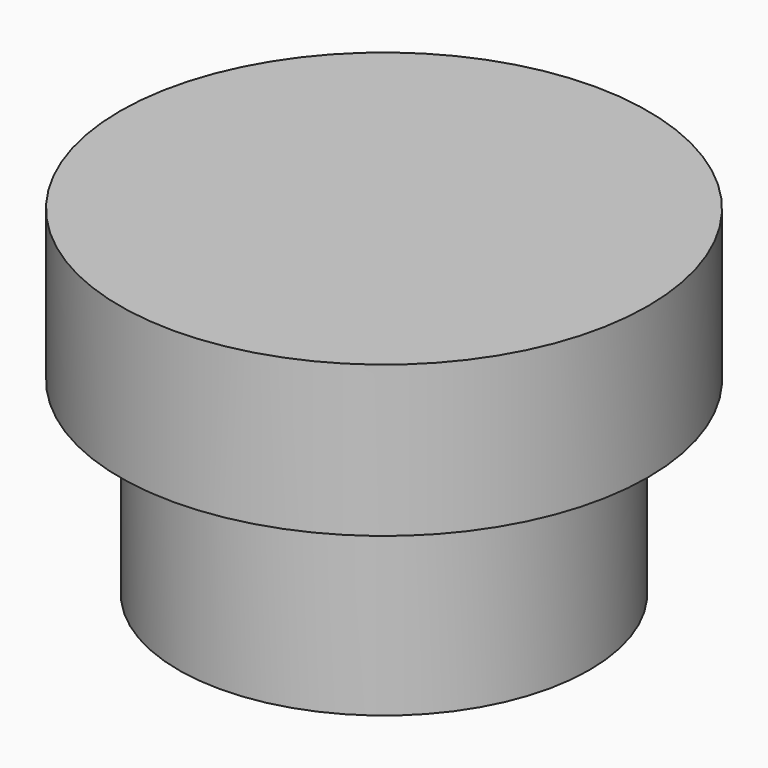
from build123d import *

# Parameters (mm, degrees)
CYLINDER001_R     = 7
CYLINDER001_DEPTH = 4
CYLINDER_R        = 5.45
CYLINDER_DEPTH    = 5


with BuildPart() as knob002:
    # Cylinder001 → Cylinder001 (new body)
    with BuildSketch(Plane(origin=(7, 0, -5), x_dir=(1, 0, 0), z_dir=(0, 0, 1))):
        Circle(CYLINDER001_R)
    extrude(amount=CYLINDER001_DEPTH)


with BuildPart() as knob003:
    # Cylinder → Cylinder (new body)
    with BuildSketch(Plane(origin=(7, 0, -10), x_dir=(1, 0, 0), z_dir=(0, 0, 1))):
        Circle(CYLINDER_R)
    extrude(amount=CYLINDER_DEPTH)

    # Fusion007: union knob002
    add(knob002.part)


solid = knob003.part
